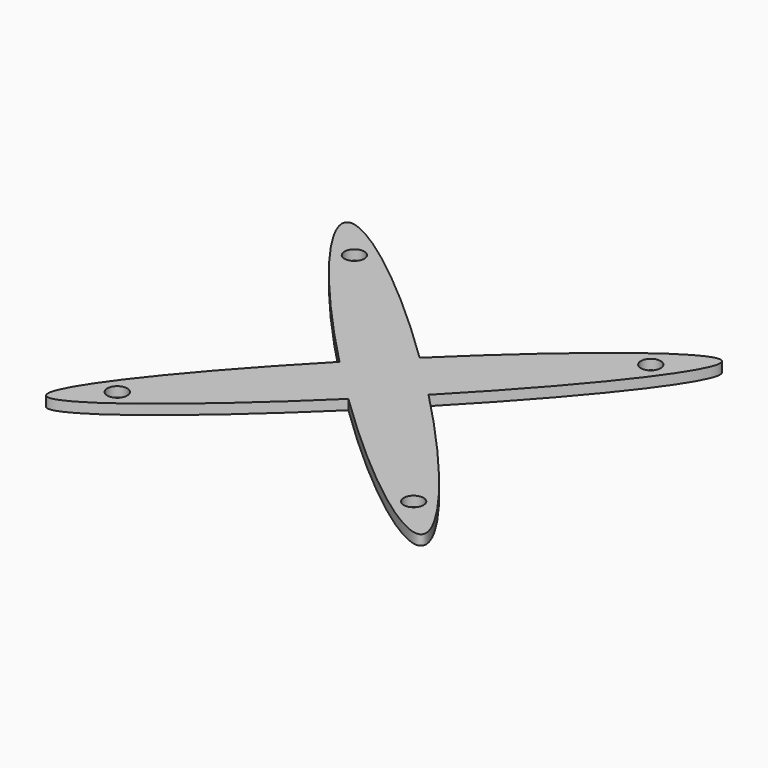
from build123d import *

# Parameters (mm, degrees)
F0_R     = 2.5
F1_DEPTH = 2.54


with BuildPart() as f1:
    # F0 (on Top) → F1 (new body)
    with BuildSketch(Plane.XY):
        with BuildLine():
            add(Edge.make_bspline(
                [(-11.271151, 0), (-52.537865, -42.462135), (-47.5, -47.5)],
                knots=[4.831313, 4.831313, 4.831313, 6.283185, 6.283185, 6.283185], degree=2, weights=[1, 0.747878, 1]))
            add(Edge.make_bspline(
                [(-47.5, -47.5), (-42.462135, -52.537865), (0, -11.271151)],
                knots=[0, 0, 0, 1.451873, 1.451873, 1.451873], degree=2, weights=[1, 0.747878, 1]))
            add(Edge.make_bspline(
                [(-11.271151, 0), (-5.716036, -5.716036), (0, -11.271151)],
                knots=[1.451873, 1.451873, 1.451873, 1.68972, 1.68972, 1.68972], degree=2, weights=[1, 0.992937, 1]))
        make_face()
        with Locations((-37.5, -37.5)):
            Circle(F0_R, mode=Mode.SUBTRACT)
        with BuildLine():
            add(Edge.make_bspline(
                [(-47.5, 47.5), (-52.537865, 42.462135), (-11.271151, 0)],
                knots=[0, 0, 0, 1.451873, 1.451873, 1.451873], degree=2, weights=[1, 0.747878, 1]))
            add(Edge.make_bspline(
                [(0, 11.271151), (-5.716036, 5.716036), (-11.271151, 0)],
                knots=[4.593465, 4.593465, 4.593465, 4.831313, 4.831313, 4.831313], degree=2, weights=[1, 0.992937, 1]))
            add(Edge.make_bspline(
                [(0, 11.271151), (-42.462135, 52.537865), (-47.5, 47.5)],
                knots=[4.831313, 4.831313, 4.831313, 6.283185, 6.283185, 6.283185], degree=2, weights=[1, 0.747878, 1]))
        make_face()
        with Locations((-37.5, 37.5)):
            Circle(F0_R, mode=Mode.SUBTRACT)
        with BuildLine():
            add(Edge.make_bspline(
                [(11.271151, 0), (5.716036, 5.716036), (0, 11.271151)],
                knots=[4.593465, 4.593465, 4.593465, 4.831313, 4.831313, 4.831313], degree=2, weights=[1, 0.992937, 1]))
            add(Edge.make_bspline(
                [(11.271151, 0), (52.537865, 42.462135), (47.5, 47.5), (42.462135, 52.537865), (0, 11.271151)],
                knots=[1.68972, 1.68972, 1.68972, 3.141593, 3.141593, 4.593465, 4.593465, 4.593465], degree=2, weights=[1, 0.747878, 1, 0.747878, 1]))
        make_face()
        with Locations((37.5, 37.5)):
            Circle(F0_R, mode=Mode.SUBTRACT)
        with BuildLine():
            add(Edge.make_bspline(
                [(0, -11.271151), (5.716036, -5.716036), (11.271151, 0)],
                knots=[1.451873, 1.451873, 1.451873, 1.68972, 1.68972, 1.68972], degree=2, weights=[1, 0.992937, 1]))
            add(Edge.make_bspline(
                [(0, -11.271151), (42.462135, -52.537865), (47.5, -47.5), (52.537865, -42.462135), (11.271151, 0)],
                knots=[1.68972, 1.68972, 1.68972, 3.141593, 3.141593, 4.593465, 4.593465, 4.593465], degree=2, weights=[1, 0.747878, 1, 0.747878, 1]))
        make_face()
        with Locations((37.5, -37.5)):
            Circle(F0_R, mode=Mode.SUBTRACT)
        with BuildLine():
            add(Edge.make_bspline(
                [(-11.271151, 0), (-5.716036, -5.716036), (0, -11.271151)],
                knots=[1.451873, 1.451873, 1.451873, 1.68972, 1.68972, 1.68972], degree=2, weights=[1, 0.992937, 1]))
            add(Edge.make_bspline(
                [(0, -11.271151), (5.716036, -5.716036), (11.271151, 0)],
                knots=[1.451873, 1.451873, 1.451873, 1.68972, 1.68972, 1.68972], degree=2, weights=[1, 0.992937, 1]))
            add(Edge.make_bspline(
                [(11.271151, 0), (5.716036, 5.716036), (0, 11.271151)],
                knots=[4.593465, 4.593465, 4.593465, 4.831313, 4.831313, 4.831313], degree=2, weights=[1, 0.992937, 1]))
            add(Edge.make_bspline(
                [(0, 11.271151), (-5.716036, 5.716036), (-11.271151, 0)],
                knots=[4.593465, 4.593465, 4.593465, 4.831313, 4.831313, 4.831313], degree=2, weights=[1, 0.992937, 1]))
        make_face()
    extrude(amount=F1_DEPTH)


solid = f1.part
